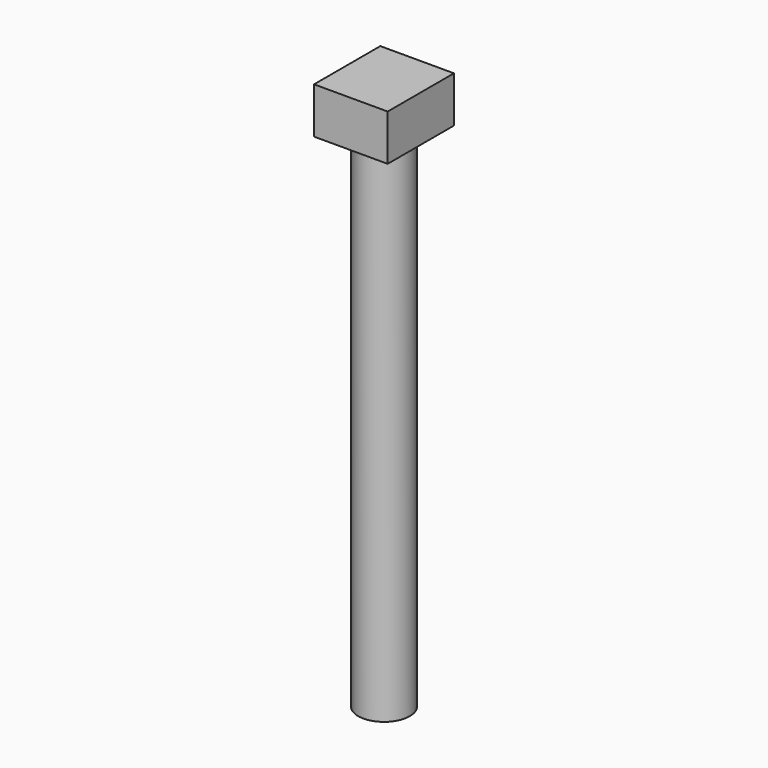
from build123d import *

# Parameters (mm, degrees)
F0_R     = 14
F1_DEPTH = 300
F2_W     = 39.96696
F2_H     = 44.953362
F2_R     = 14
F3_DEPTH = 25


with BuildPart() as f1:
    # F0 (on Top) → F1 (new body)
    with BuildSketch(Plane.XY):
        Circle(F0_R)
    extrude(amount=F1_DEPTH)

    # F2 (on face) → F3 (join)
    with BuildSketch(Plane.XY.offset(300)):
        Rectangle(F2_W, F2_H)
        Circle(F2_R, mode=Mode.SUBTRACT)
    extrude(amount=-F3_DEPTH)


solid = f1.part
